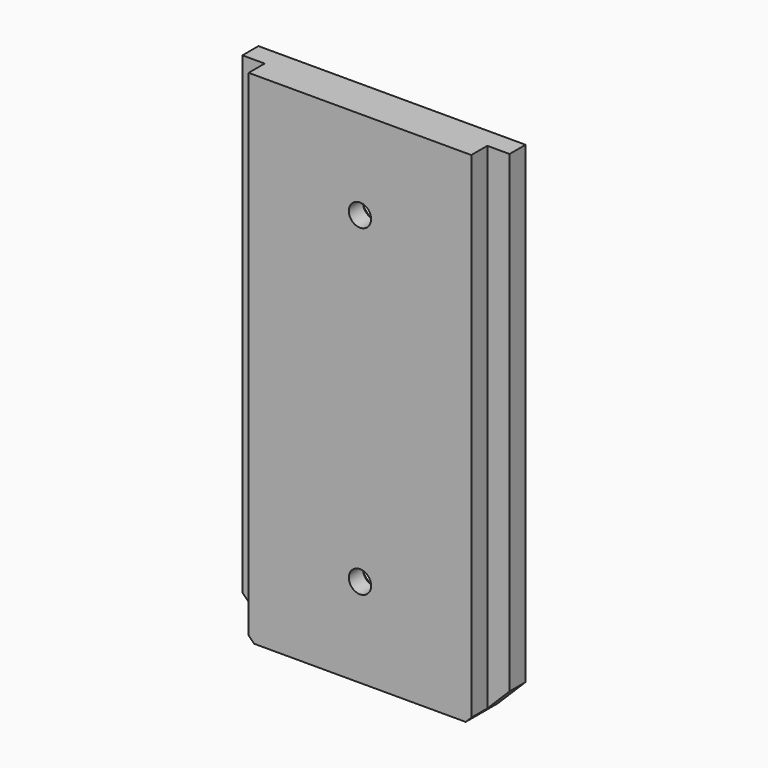
from build123d import *

# Parameters (mm, degrees)
F0_W           = 20
F0_H           = 1.8
F1_DEPTH       = 45
F2_SIZE        = 2.5
F3_SIZE        = 2.5
F5_D           = 2
F5_DEPTH       = 15
F5_CSINK_D     = 6
F5_CSINK_ANGLE = 90


with BuildPart() as f1:
    # F0 (on Top) → F1 (new body)
    with BuildSketch(Plane.XY):
        Polygon((12, 3.40756), (-12, 3.40756), (-12, 1.60756), (-10, 1.60756), (10, 1.60756), (12, 1.60756), align=None)
        with Locations((0, 0.70756)):
            Rectangle(F0_W, F0_H)
    extrude(amount=F1_DEPTH)

    # F2
    f2_edges = [f1.edges().sort_by_distance(p)[0] for p in [
        (12, 2.50756, 0),
    ]]
    chamfer(f2_edges, length=F2_SIZE)

    # F3
    f3_edges = [f1.edges().sort_by_distance(p)[0] for p in [
        (-12, 2.50756, 0),
    ]]
    chamfer(f3_edges, length=F3_SIZE)

    # F5
    with Locations(Plane(origin=(0, 3.40756, 0), x_dir=(-1, 0, 0), z_dir=(0, 1, 0))):
        with Locations((0, 37), (0, 8)):
            CounterSinkHole(F5_D / 2, F5_CSINK_D / 2, depth=F5_DEPTH, counter_sink_angle=F5_CSINK_ANGLE)


solid = f1.part
